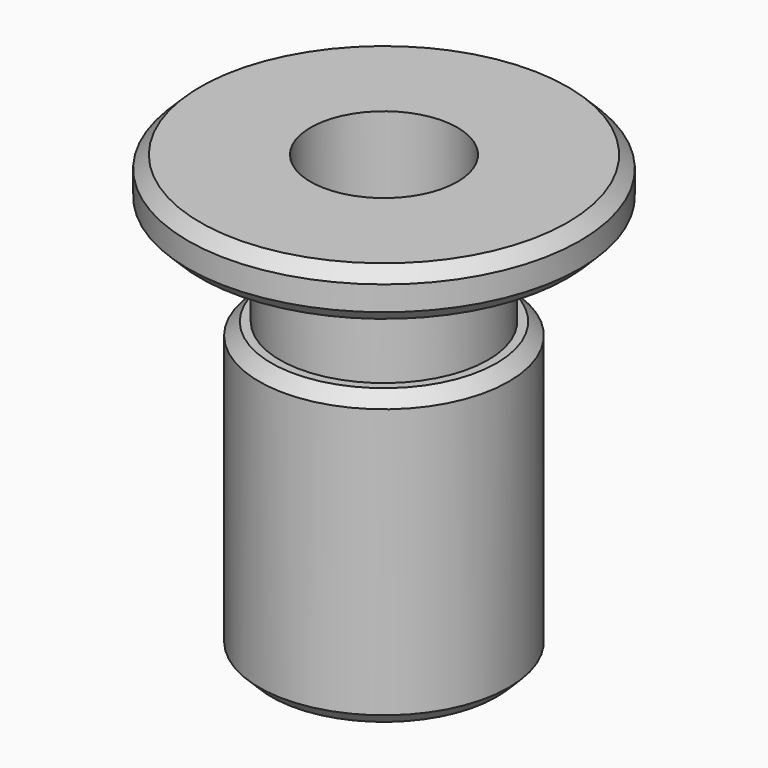
from build123d import *

# Parameters (mm, degrees)
F0_R     = 203.2
F1_DEPTH = 50.8
F2_R     = 107.95
F3_DEPTH = 101.6
F4_R     = 129.54
F5_DEPTH = 304.8
F6_R     = 76.2
F7_DEPTH = 457.2
F8_SIZE  = 12.7
F9_SIZE  = 12.7
F10_SIZE = 12.7


with BuildPart() as f1:
    # F0 (on Top) → F1 (new body)
    with BuildSketch(Plane.XY):
        Circle(F0_R)
    extrude(amount=F1_DEPTH)

    # F2 (on face) → F3 (join)
    with BuildSketch(Plane(origin=(0, 0, 0), x_dir=(1, 0, 0), z_dir=(0, 0, -1))):
        Circle(F2_R)
    extrude(amount=F3_DEPTH)

    # F4 (on face) → F5 (join)
    with BuildSketch(Plane(origin=(0, 0, -101.6), x_dir=(1, 0, 0), z_dir=(0, 0, -1))):
        Circle(F4_R)
    extrude(amount=F5_DEPTH)

    # F6 (on face) → F7 (cut)
    with BuildSketch(Plane.XY.offset(50.8)):
        Circle(F6_R)
    extrude(amount=-F7_DEPTH, mode=Mode.SUBTRACT)

    # F8
    f8_edges = [f1.edges().sort_by_distance(p)[0] for p in [
        (-203.2, 0, 50.8),
    ]]
    chamfer(f8_edges, length=F8_SIZE)

    # F9
    f9_edges = [f1.edges().sort_by_distance(p)[0] for p in [
        (-203.2, 0, 0),
    ]]
    chamfer(f9_edges, length=F9_SIZE)

    # F10
    f10_edges = [f1.edges().sort_by_distance(p)[0] for p in [
        (-129.54, 0, -101.6),
        (-129.54, 0, -406.4),
    ]]
    chamfer(f10_edges, length=F10_SIZE)


solid = f1.part
